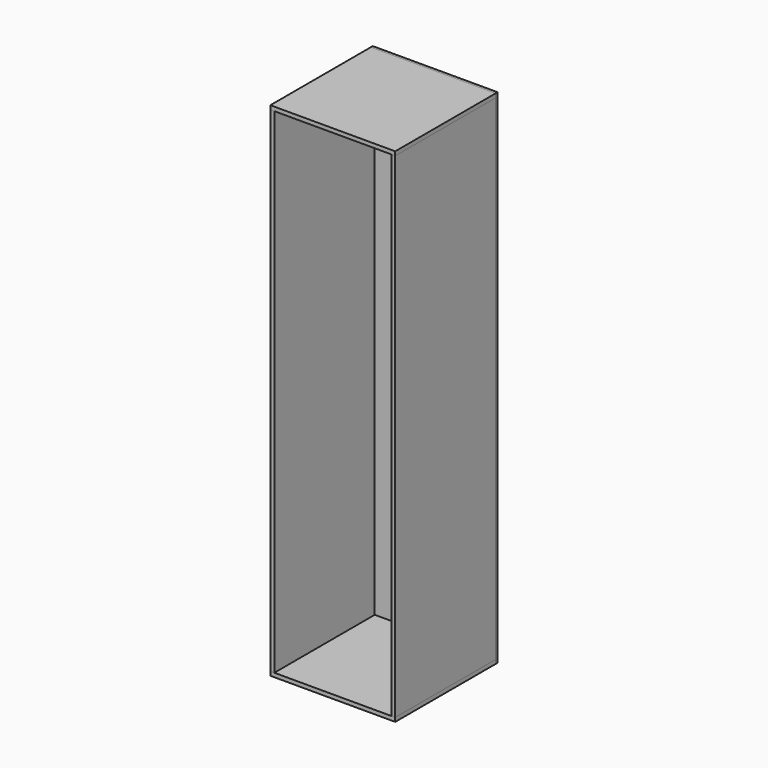
from build123d import *

# Parameters (mm, degrees)
F0_W      = 597
F0_H      = 600
F2_DEPTH  = 19
F4_W      = 19
F4_H      = 600
F5_DEPTH  = 2364
F6_W      = 19
F6_H      = 600
F7_DEPTH  = 2364
F8_W      = 578
F8_H      = 600
F8_W_2    = 19
F9_DEPTH  = 19
F10_W     = 597
F10_H     = 2383
F10_H_2   = 19
F12_DEPTH = 12


with BuildPart() as f2:
    # F0 (on Top) → F2 (new body)
    with BuildSketch(Plane.XY):
        Rectangle(F0_W, F0_H)
    extrude(amount=F2_DEPTH)


with BuildPart() as f5:
    # F4 (on face) → F5 (new body)
    with BuildSketch(Plane.XY.offset(19)):
        with Locations((-289, 0)):
            Rectangle(F4_W, F4_H)
    extrude(amount=F5_DEPTH)


with BuildPart() as f7:
    # F6 (on face) → F7 (new body)
    with BuildSketch(Plane.XY.offset(19)):
        with Locations((289, 0)):
            Rectangle(F6_W, F6_H)
    extrude(amount=F7_DEPTH)


with BuildPart() as f9:
    # F8 (on face) → F9 (new body)
    with BuildSketch(Plane.XY.offset(2383)):
        with Locations((9.5, 0)):
            Rectangle(F8_W, F8_H)
        with Locations((-289, 0)):
            Rectangle(F8_W_2, F8_H)
    extrude(amount=F9_DEPTH)


with BuildPart() as f12:
    # F10 (on face) → F12 (new body)
    with BuildSketch(Plane(origin=(0, 300, 0), x_dir=(-1, 0, 0), z_dir=(0, 1, 0))):
        with Locations((0, 1191.5)):
            Rectangle(F10_W, F10_H)
        with Locations((0, 2392.5)):
            Rectangle(F10_W, F10_H_2)
    extrude(amount=F12_DEPTH)


solid = Compound([f2.part, f5.part, f7.part, f9.part, f12.part])
